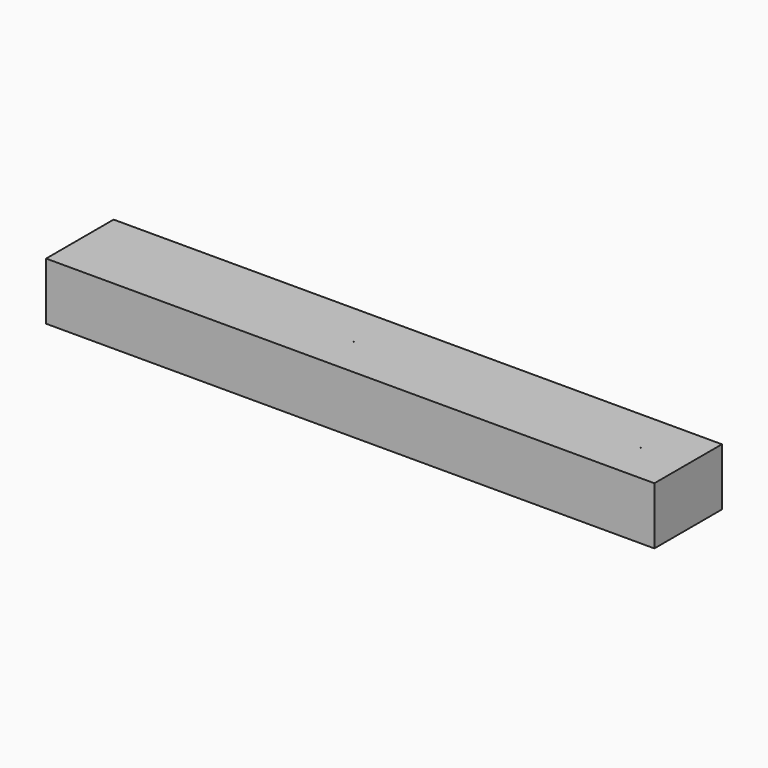
from build123d import *

# Parameters (mm, degrees)
F0_W     = 265
F0_H     = 36.778787
F0_R     = 0.05
F1_DEPTH = 25


with BuildPart() as f1:
    # F0 (on Top) → F1 (new body)
    with BuildSketch(Plane.XY):
        with Locations((112.5, 70.889393)):
            Rectangle(F0_W, F0_H)
        with Locations((0, 70)):
            Circle(F0_R, mode=Mode.SUBTRACT)
        with Locations((25, 70)):
            Circle(F0_R, mode=Mode.SUBTRACT)
        with Locations((50, 70)):
            Circle(F0_R, mode=Mode.SUBTRACT)
        with Locations((75, 70)):
            Circle(F0_R, mode=Mode.SUBTRACT)
        with Locations((100, 70)):
            Circle(F0_R, mode=Mode.SUBTRACT)
        with Locations((125, 70)):
            Circle(F0_R, mode=Mode.SUBTRACT)
        with Locations((150, 70)):
            Circle(F0_R, mode=Mode.SUBTRACT)
        with Locations((175, 70)):
            Circle(F0_R, mode=Mode.SUBTRACT)
        with Locations((200, 70)):
            Circle(F0_R, mode=Mode.SUBTRACT)
        with Locations((225, 70)):
            Circle(F0_R, mode=Mode.SUBTRACT)
    extrude(amount=F1_DEPTH)


solid = f1.part
